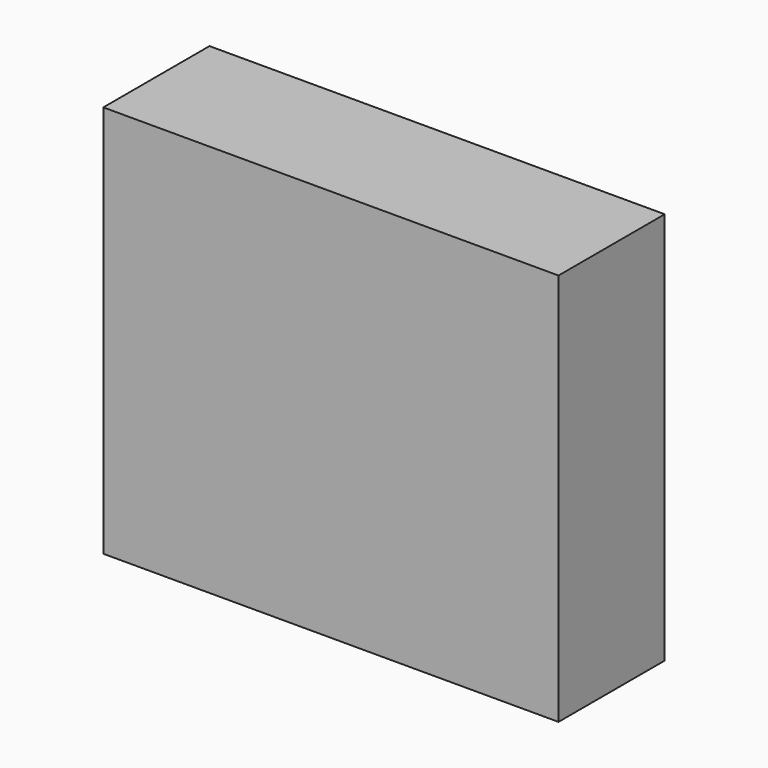
from build123d import *

# Parameters (mm, degrees)
F0_W     = 56.921816
F0_H     = 49.951795
F1_DEPTH = 25.4
F2_W     = 87.125231
F2_H     = 75.218111
F3_DEPTH = 25.4


with BuildPart() as f1:
    # F0 (on Front) → F1 (new body)
    with BuildSketch(Plane.XZ):
        with Locations((-1e-06, -8.276897)):
            Rectangle(F0_W, F0_H)
    extrude(amount=F1_DEPTH)

    # F2 (on Front) → F3 (join)
    with BuildSketch(Plane.XZ):
        with Locations((0.580835, -10.745443)):
            Rectangle(F2_W, F2_H)
    extrude(amount=F3_DEPTH)


solid = f1.part
